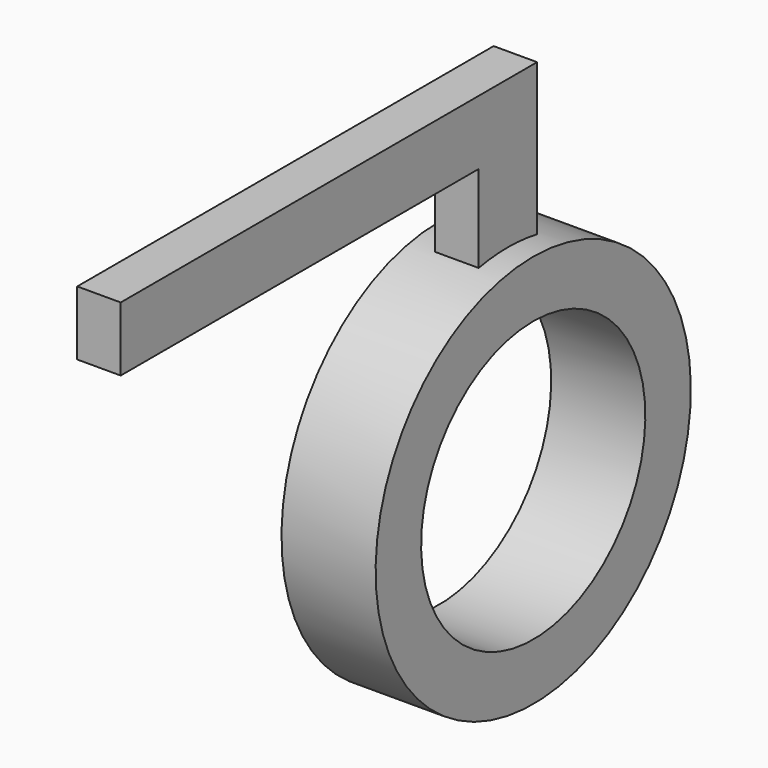
from build123d import *

# Parameters (mm, degrees)
F0_W     = 65
F0_H     = 39.25
F3_DEPTH = 15


with BuildPart() as f1:
    # F0 (on Front) → F1 (revolve)
    with BuildSketch(Plane.XZ):
        with Locations((0, 116.375)):
            Rectangle(F0_W, F0_H)
    revolve(axis=Axis((47.677, 0, 0), (1, 0, 0)))

    # F2 (on Right) → F3 (join, symmetric)
    with BuildSketch(Plane.YZ):
        Polygon((-25.211966, 112.717174), (25.211966, 112.717174), (25.211966, 238.258496), (-334.122539, 238.258496), (-334.122539, 193.825752), (-25.211966, 193.825752), align=None)
    extrude(amount=F3_DEPTH, both=True)


solid = f1.part
